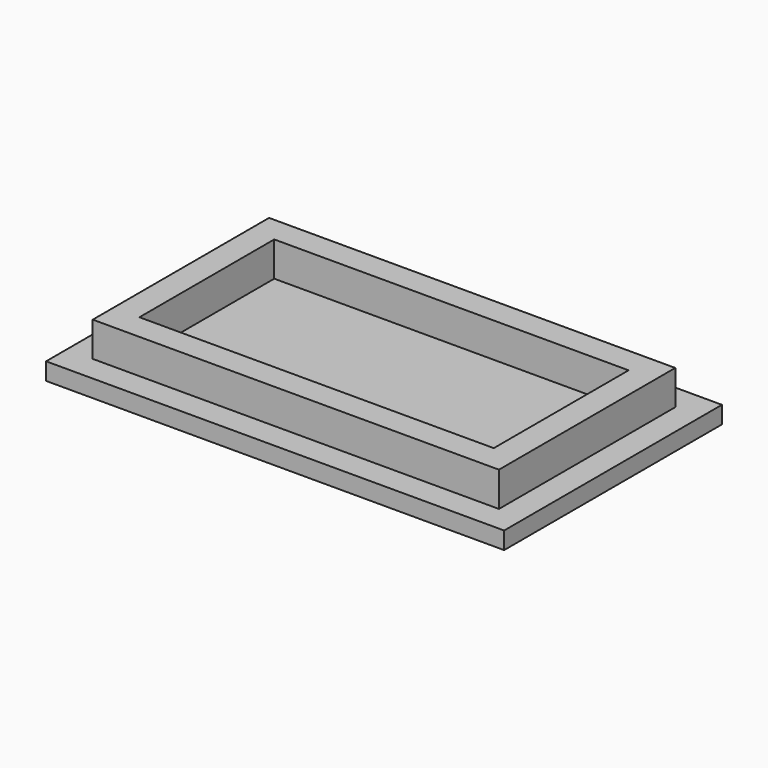
from build123d import *

# Parameters (mm, degrees)
F0_W     = 47
F0_H     = 25.5
F0_W_2   = 41
F0_H_2   = 19.5
F1_DEPTH = 4
F2_W     = 53
F2_H     = 31.5
F2_W_2   = 47
F2_H_2   = 25.5
F2_W_3   = 41
F2_H_3   = 19.5
F3_DEPTH = 2


with BuildPart() as f1:
    # F0 (on Top) → F1 (new body)
    with BuildSketch(Plane.XY):
        with Locations((-4.891038, -11.10606)):
            Rectangle(F0_W, F0_H)
        with Locations((-4.891038, -11.10606)):
            Rectangle(F0_W_2, F0_H_2, mode=Mode.SUBTRACT)
    extrude(amount=F1_DEPTH)

    # F2 (on face) → F3 (join)
    with BuildSketch(Plane(origin=(0, 0, 0), x_dir=(1, 0, 0), z_dir=(0, 0, -1))):
        with Locations((-4.891038, 11.10606)):
            Rectangle(F2_W, F2_H)
        with Locations((-4.891038, 11.10606)):
            Rectangle(F2_W_2, F2_H_2, mode=Mode.SUBTRACT)
        with Locations((-4.891038, 11.10606)):
            Rectangle(F2_W_2, F2_H_2)
        with Locations((-4.891038, 11.10606)):
            Rectangle(F2_W_3, F2_H_3, mode=Mode.SUBTRACT)
        with Locations((-4.891038, 11.10606)):
            Rectangle(F2_W_3, F2_H_3)
    extrude(amount=F3_DEPTH)


solid = f1.part
